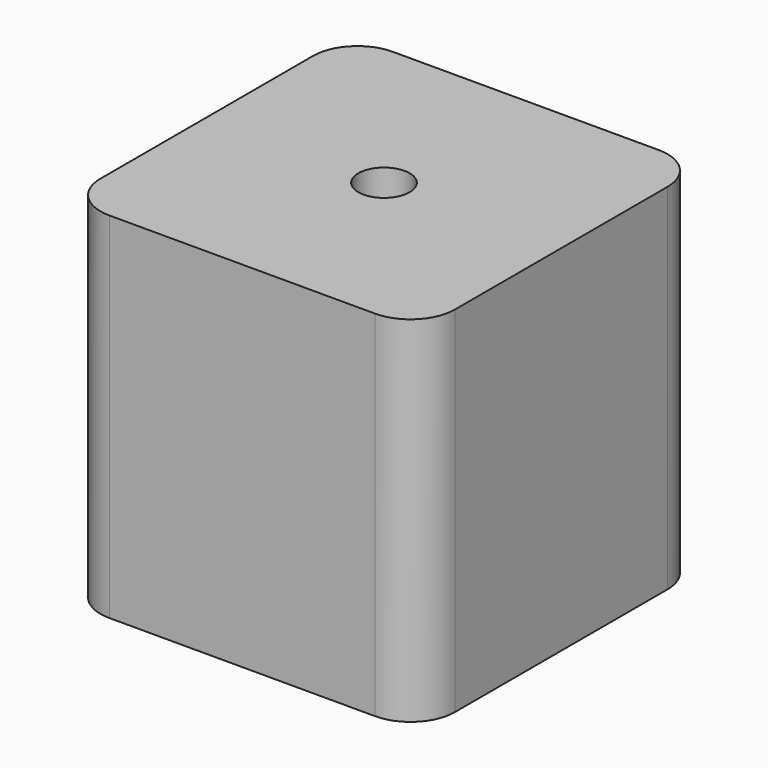
from build123d import *

# Parameters (mm, degrees)
F0_R     = 1.8415
F1_DEPTH = 12.7


with BuildPart() as f1:
    # F0 (on Top) → F1 (new body, symmetric)
    with BuildSketch(Plane.XY):
        with BuildLine():
            Line((9.525, 12.7), (-9.525, 12.7))
            ThreePointArc((-9.525, 12.7), (-11.770064, 11.770064), (-12.7, 9.525))
            Line((-12.7, 9.525), (-12.7, -9.525))
            ThreePointArc((-12.7, -9.525), (-11.770064, -11.770064), (-9.525, -12.7))
            Line((-9.525, -12.7), (9.525, -12.7))
            ThreePointArc((9.525, -12.7), (11.770064, -11.770064), (12.7, -9.525))
            Line((12.7, -9.525), (12.7, 9.525))
            ThreePointArc((12.7, 9.525), (11.770064, 11.770064), (9.525, 12.7))
        make_face()
        Circle(F0_R, mode=Mode.SUBTRACT)
    extrude(amount=F1_DEPTH, both=True)


solid = f1.part
